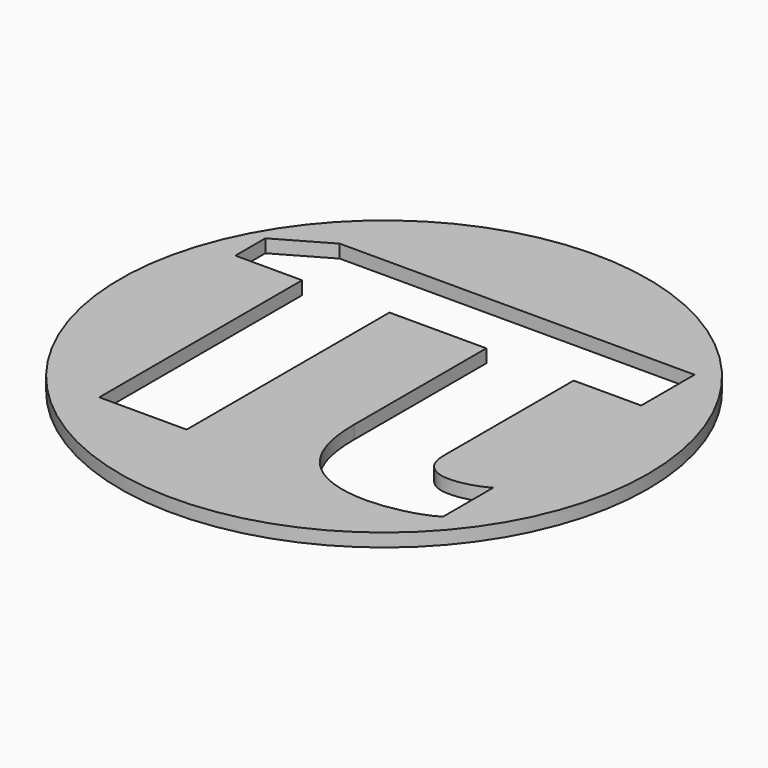
from build123d import *

# Parameters (mm, degrees)
F0_R     = 40
F1_DEPTH = 2


with BuildPart() as f1:
    # F0 (on Top) → F1 (new body)
    with BuildSketch(Plane.XY):
        Circle(F0_R)
        with BuildLine():
            add(Edge.make_bspline(
                [(19.3472222222, -14.6533066589), (20.5208333333, -15.7227511033), (22.2569444444, -15.7227511033)],
                knots=[0, 0, 0, 1, 1, 1], degree=2))
            add(Edge.make_bspline(
                [(22.2569444444, -15.7227511033), (25.1597222222, -15.7227511033), (27.8958333333, -14.1949733256)],
                knots=[0, 0, 0, 1, 1, 1], degree=2))
            Line((27.8958333333, -14.1949733256), (27.8958333333, -23.7088622145))
            add(Edge.make_bspline(
                [(27.8958333333, -23.7088622145), (26.1180555556, -24.7921955478), (23.3611111111, -25.4449733256)],
                knots=[0, 0, 0, 1, 1, 1], degree=2))
            add(Edge.make_bspline(
                [(23.3611111111, -25.4449733256), (20.6041666667, -26.0977511033), (18.2569444444, -26.0977511033)],
                knots=[0, 0, 0, 1, 1, 1], degree=2))
            add(Edge.make_bspline(
                [(18.2569444444, -26.0977511033), (11.7430555556, -26.0977511033), (8.3402777778, -22.5352511033)],
                knots=[0, 0, 0, 1, 1, 1], degree=2))
            add(Edge.make_bspline(
                [(8.3402777778, -22.5352511033), (4.9375, -18.9727511033), (4.9375, -11.9033066589)],
                knots=[0, 0, 0, 1, 1, 1], degree=2))
            Line((4.9375, -11.9033066589), (4.9375, 13.1939155633))
            Line((4.9375, 13.1939155633), (-9.7430555556, 13.1939155633))
            Line((-9.7430555556, 13.1939155633), (-9.7430555556, -25.2227511033))
            Line((-9.7430555556, -25.2227511033), (-22.9791666667, -25.2227511033))
            Line((-22.9791666667, -25.2227511033), (-22.9791666667, 13.1939155633))
            Line((-22.9791666667, 13.1939155633), (-33.0902777778, 13.1939155633))
            Line((-33.0902777778, 13.1939155633), (-33.0902777778, 18.8744711189))
            Line((-33.0902777778, 18.8744711189), (-25.3680555556, 23.3050266744))
            Line((-25.3680555556, 23.3050266744), (28.4097222222, 23.3050266744))
            Line((28.4097222222, 23.3050266744), (28.4097222222, 13.1939155633))
            Line((28.4097222222, 13.1939155633), (18.1736111111, 13.1939155633))
            Line((18.1736111111, 13.1939155633), (18.1736111111, -11.3755288811))
            add(Edge.make_bspline(
                [(18.1736111111, -11.3755288811), (18.1736111111, -13.5838622145), (19.3472222222, -14.6533066589)],
                knots=[0, 0, 0, 1, 1, 1], degree=2))
        make_face(mode=Mode.SUBTRACT)
    extrude(amount=F1_DEPTH)


solid = f1.part
